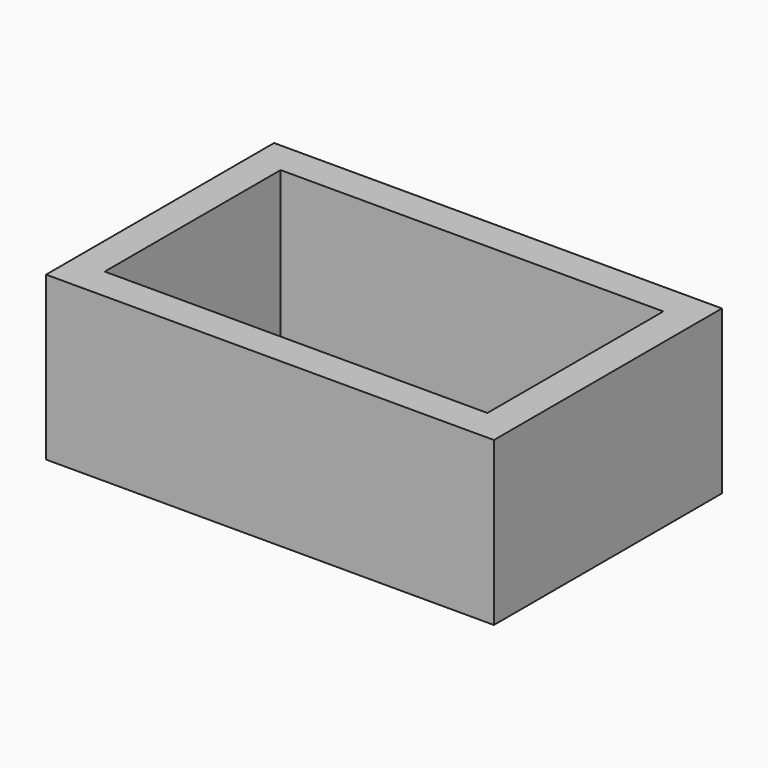
from build123d import *

# Parameters (mm, degrees)
F0_W     = 69.85
F0_H     = 25.4
F1_DEPTH = 5.08
F2_W     = 39.37
F2_H     = 25.4
F3_DEPTH = 5.08
F4_W     = 64.77
F4_H     = 25.4
F5_DEPTH = 5.08
F6_W     = 39.37
F6_H     = 25.4
F7_DEPTH = 5.08


with BuildPart() as f1:
    # F0 (on Front) → F1 (new body)
    with BuildSketch(Plane.XZ):
        Rectangle(F0_W, F0_H)
    extrude(amount=F1_DEPTH)

    # F2 (on face) → F3 (join)
    with BuildSketch(Plane(origin=(-34.925, 0, 0), x_dir=(0, -1, 0), z_dir=(-1, 0, 0))):
        with Locations((24.765, 0)):
            Rectangle(F2_W, F2_H)
    extrude(amount=-F3_DEPTH)

    # F4 (on face) → F5 (join)
    with BuildSketch(Plane.XZ.offset(44.45)):
        with Locations((2.54, 0)):
            Rectangle(F4_W, F4_H)
    extrude(amount=-F5_DEPTH)

    # F6 (on face) → F7 (join)
    with BuildSketch(Plane.YZ.offset(34.925)):
        with Locations((-19.685, 0)):
            Rectangle(F6_W, F6_H)
    extrude(amount=-F7_DEPTH)


solid = f1.part
